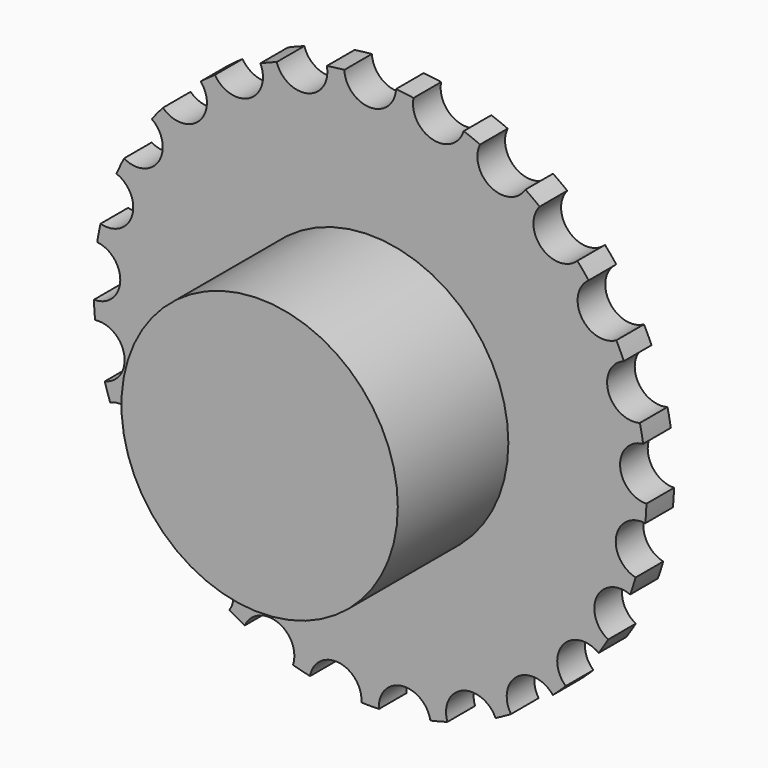
from build123d import *

# Parameters (mm, degrees)
F0_R          = 25.4
F1_DEPTH      = 6.35
F2_DEPTH      = 31.75
F2_DEPTH_BACK = 3.175
F3_DEPTH      = 12.7


with BuildPart() as f1:
    # F0 (on Front) → F1 (new body)
    with BuildSketch(Plane.XZ):
        with BuildLine():
            ThreePointArc((50.7756672677, -1.5721366092), (45.94665551, 2.8907185428), (50.1782450005, 7.9236184075))
            ThreePointArc((50.1782450005, 7.9236184075), (49.900192337, 9.518970781), (49.5714307865, 11.1046499169))
            ThreePointArc((49.5714307865, 11.1046499169), (43.7842643689, 14.2263698785), (46.6312793948, 20.153505452))
            ThreePointArc((46.6312793948, 20.153505452), (45.9652142653, 21.6295880115), (45.2524389981, 23.0836904486))
            ThreePointArc((45.2524389981, 23.0836904486), (38.8707468703, 24.6681260738), (40.1542990068, 31.1170736296))
            ThreePointArc((40.1542990068, 31.1170736296), (39.142072733, 32.3811386792), (38.0900700405, 33.6122978136))
            ThreePointArc((38.0900700405, 33.6122978136), (31.5148373892, 33.5598931849), (31.1542763351, 40.1254416304))
            ThreePointArc((31.1542763351, 40.1254416304), (29.8594908165, 41.0980633142), (28.5343618968, 42.0289208896))
            ThreePointArc((28.5343618968, 42.0289208896), (22.1787347715, 40.3429687825), (20.1967159038, 46.6125805626))
            ThreePointArc((20.1967159038, 46.6125805626), (18.7007272764, 47.2326454831), (17.1857348531, 47.8047122945))
            ThreePointArc((17.1857348531, 47.8047122945), (11.4490606804, 44.5911472805), (7.970121534, 50.1708796289))
            ThreePointArc((7.970121534, 50.1708796289), (6.3669282651, 50.3994268268), (4.7572648839, 50.5767578125))
            ThreePointArc((4.7572648839, 50.5767578125), (0, 46.0375), (-4.7572648839, 50.5767578125))
            ThreePointArc((-4.7572648839, 50.5767578125), (-6.3669282651, 50.3994268268), (-7.970121534, 50.1708796289))
            ThreePointArc((-7.970121534, 50.1708796289), (-7.8958049616, 49.6899886809), (-7.870946268, 49.2040245853))
            ThreePointArc((-7.870946268, 49.2040245853), (-11.9259394259, 44.4943706364), (-17.1857348531, 47.8047122945))
            ThreePointArc((-17.1857348531, 47.8047122945), (-18.7007272764, 47.2326454831), (-20.1967159038, 46.6125805626))
            ThreePointArc((-20.1967159038, 46.6125805626), (-19.8337105062, 45.5922953741), (-19.7105866444, 44.5163793462))
            ThreePointArc((-19.7105866444, 44.5163793462), (-23.1808825467, 39.9325365457), (-28.5343618968, 42.0289208896))
            ThreePointArc((-28.5343618968, 42.0289208896), (-29.8594908165, 41.0980633142), (-31.1542763351, 40.1254416304))
            ThreePointArc((-31.1542763351, 40.1254416304), (-30.3070477444, 38.6805063948), (-30.0124929812, 37.031606273))
            ThreePointArc((-30.0124929812, 37.031606273), (-32.9184704584, 32.6458645601), (-38.0900700405, 33.6122978136))
            ThreePointArc((-38.0900700405, 33.6122978136), (-39.142072733, 32.3811386792), (-40.1542990068, 31.1170736296))
            ThreePointArc((-40.1542990068, 31.1170736296), (-38.6658064456, 29.4158812606), (-38.1293586155, 27.2200011849))
            ThreePointArc((-38.1293586155, 27.2200011849), (-40.5002961369, 23.1015263263), (-45.2524389981, 23.0836904486))
            ThreePointArc((-45.2524389981, 23.0836904486), (-45.9652142653, 21.6295880115), (-46.6312793948, 20.153505452))
            ThreePointArc((-46.6312793948, 20.153505452), (-44.3961592919, 18.4062930033), (-43.5511710278, 15.6980633142))
            ThreePointArc((-43.5511710278, 15.6980633142), (-45.4247849623, 11.9118061187), (-49.5714307865, 11.1046499169))
            ThreePointArc((-49.5714307865, 11.1046499169), (-49.900192337, 9.518970781), (-50.1782450005, 7.9236184075))
            ThreePointArc((-50.1782450005, 7.9236184075), (-47.1525680025, 6.3676272946), (-45.9372578042, 3.1897583921))
            ThreePointArc((-45.9372578042, 3.1897583921), (-47.3591076107, -0.2045696025), (-50.7756672677, -1.5721366092))
            ThreePointArc((-50.7756672677, -1.5721366092), (-50.6997578042, -3.1897583921), (-50.5723269302, -4.8041387226))
            ThreePointArc((-50.5723269302, -4.8041387226), (-46.7792657719, -5.9215795561), (-45.137692337, -9.518970781))
            ThreePointArc((-45.137692337, -9.518970781), (-46.1604620648, -12.4678389946), (-48.7894818346, -14.1501400102))
            ThreePointArc((-48.7894818346, -14.1501400102), (-48.3136710278, -15.6980633142), (-47.7887635668, -17.2300341484))
            ThreePointArc((-47.7887635668, -17.2300341484), (-43.3197698129, -17.6694074728), (-41.2027142653, -21.6295880115))
            ThreePointArc((-41.2027142653, -21.6295880115), (-41.8853816947, -24.0864910308), (-43.7376738227, -25.8390380738))
            ThreePointArc((-43.7376738227, -25.8390380738), (-42.8918586155, -27.2200011849), (-42.0024564338, -28.5733031609))
            ThreePointArc((-42.0024564338, -28.5733031609), (-37.0138306327, -28.1206232395), (-34.379572733, -32.3811386792))
            ThreePointArc((-34.379572733, -32.3811386792), (-34.7864792609, -34.3073296759), (-35.9376669086, -35.9043743458))
            ThreePointArc((-35.9376669086, -35.9043743458), (-34.7749929812, -37.031606273), (-33.5769804888, -38.1212064507))
            ThreePointArc((-33.5769804888, -38.1212064507), (-28.2820147175, -36.604403847), (-25.0969908165, -41.0980633142))
            ThreePointArc((-25.0969908165, -41.0980633142), (-25.2968267537, -42.4631651056), (-25.8795642131, -43.7137067307))
            ThreePointArc((-25.8795642131, -43.7137067307), (-24.4730866444, -44.5163793462), (-23.0417393722, -45.2738141391))
            ThreePointArc((-23.0417393722, -45.2738141391), (-17.6988949192, -42.5767096827), (-13.9382272764, -47.2326454831))
            ThreePointArc((-13.9382272764, -47.2326454831), (-14.0029485609, -48.0151295985), (-14.1953533198, -48.7763461539))
            ThreePointArc((-14.1953533198, -48.7763461539), (-12.633446268, -49.2040245853), (-11.0587010292, -49.5817015798))
            ThreePointArc((-11.0587010292, -49.5817015798), (-5.9565391444, -45.6546415819), (-1.6044282651, -50.3994268268))
            ThreePointArc((-1.6044282651, -50.3994268268), (-1.6081216736, -50.5869530242), (-1.6191961705, -50.7741883614))
            ThreePointArc((-1.6191961705, -50.7741883614), (0, -50.8), (1.6191961705, -50.7741883614))
            ThreePointArc((1.6191961705, -50.7741883614), (5.7700287402, -45.6744805618), (11.0587010292, -49.5817015798))
            ThreePointArc((11.0587010292, -49.5817015798), (12.633446268, -49.2040245853), (14.1953533198, -48.7763461539))
            ThreePointArc((14.1953533198, -48.7763461539), (16.9475340942, -42.8045849691), (23.0417393722, -45.2738141391))
            ThreePointArc((23.0417393722, -45.2738141391), (24.4730866444, -44.5163793462), (25.8795642131, -43.7137067307))
            ThreePointArc((25.8795642131, -43.7137067307), (27.0601635524, -37.2451198785), (33.5769804888, -38.1212064507))
            ThreePointArc((33.5769804888, -38.1212064507), (34.7749929812, -37.031606273), (35.9376669086, -35.9043743458))
            ThreePointArc((35.9376669086, -35.9043743458), (35.4725034143, -29.3454069281), (42.0024564338, -28.5733031609))
            ThreePointArc((42.0024564338, -28.5733031609), (42.8918586155, -27.2200011849), (43.7376738227, -25.8390380738))
            ThreePointArc((43.7376738227, -25.8390380738), (41.6559754279, -19.6018141354), (47.7887635668, -17.2300341484))
            ThreePointArc((47.7887635668, -17.2300341484), (48.3136710278, -15.6980633142), (48.7894818346, -14.1501400102))
            ThreePointArc((48.7894818346, -14.1501400102), (45.2220493054, -8.6265672702), (50.5723269302, -4.8041387226))
            ThreePointArc((50.5723269302, -4.8041387226), (50.6997578042, -3.1897583921), (50.7756672677, -1.5721366092))
        make_face()
        Circle(F0_R, mode=Mode.SUBTRACT)
    extrude(amount=F1_DEPTH)

    # F0 (on Front) → F2 (join, two sides)
    with BuildSketch(Plane.XZ) as f2_sk:
        Circle(F0_R)
    extrude(amount=F2_DEPTH)
    extrude(f2_sk.sketch, amount=-F2_DEPTH_BACK)

    # F3 (add): a face of the model
    f3_faces = [f1.faces().sort_by_distance(p)[0] for p in [
        (0, 3.175, 0),
    ]]
    extrude(f3_faces, amount=F3_DEPTH)


solid = f1.part
